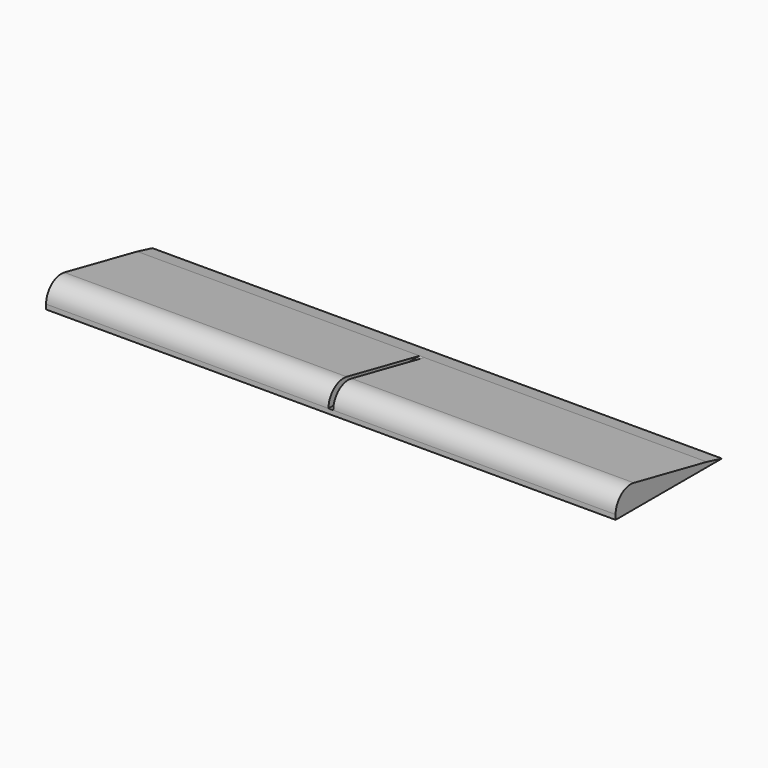
from build123d import *

# Parameters (mm, degrees)
F3_DEPTH  = 2.5
F5_DEPTH  = 297.5
F8_DEPTH  = 600
F10_DEPTH = 297.5


with BuildPart() as f3:
    # F0 (on Top) → F3 (new body, symmetric)
    with BuildSketch(Plane.XY):
        Polygon((-300, 0), (0, 0), (300, 0), (300, 140), (-300, 140), align=None)
    extrude(amount=F3_DEPTH, both=True)

    # F4 (on offset) → F5 (join)
    with BuildSketch(Plane.YZ.offset(2.5)):
        Polygon((0, 2.5), (0, 0), (0, -2.5), (140, -2.5), (120, 2.5), align=None)
        with BuildLine():
            ThreePointArc((24, 22.0959179423), (7.3508893593, 17.9919333848), (0, 2.5))
            Line((0, 2.5), (120, 2.5))
            Line((120, 2.5), (24, 22.0959179423))
        make_face()
        Polygon((140, 2.5), (120, 2.5), (140, -2.5), align=None)
    extrude(amount=F5_DEPTH)

    # F7 (on offset) → F8 (cut)
    with BuildSketch(Plane(origin=(-300, 0, 0), x_dir=(0, -1, 0), z_dir=(-1, 0, 0))):
        Polygon((-140, -2.5), (-120, 2.5), (-140, 2.5), align=None)
    extrude(amount=-F8_DEPTH, mode=Mode.SUBTRACT)

    # F9 (on offset) → F10 (join)
    with BuildSketch(Plane.YZ.offset(-2.5)):
        with BuildLine():
            ThreePointArc((24, 22.0959179423), (7.3508893593, 17.9919333848), (0, 2.5))
            Line((0, 2.5), (120, 2.5))
            Line((120, 2.5), (24, 22.0959179423))
        make_face()
        Polygon((0, 2.5), (0, 0), (0, -2.5), (140, -2.5), (120, 2.5), align=None)
    extrude(amount=-F10_DEPTH)


solid = f3.part
